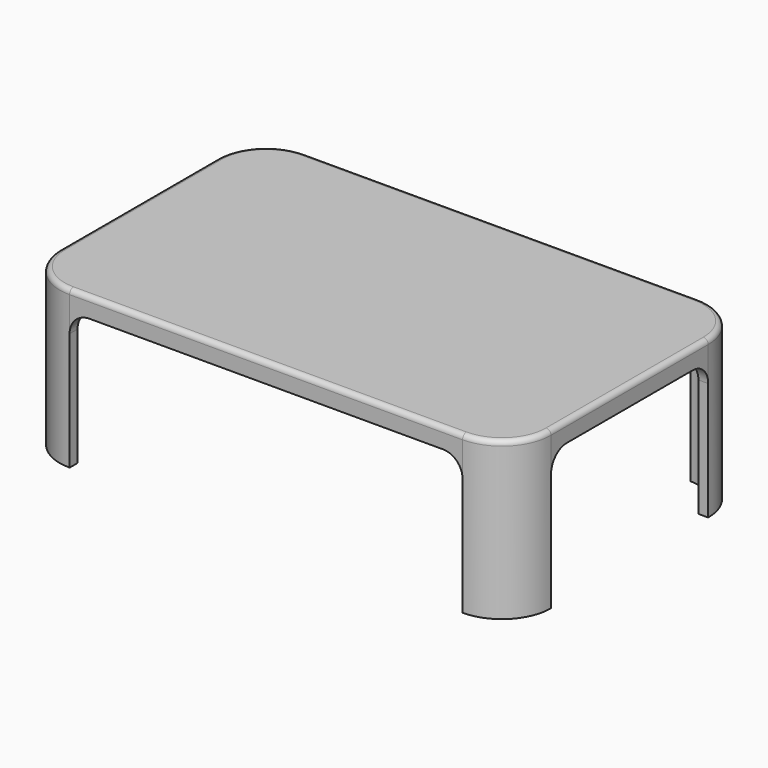
from build123d import *

# Parameters (mm, degrees)
F0_R     = 50
F1_DEPTH = 800
F2_T     = -50
F4_DEPTH = 1500.001
F6_DEPTH = 2500.001
F7_R     = 25


with BuildPart() as f1:
    # F0 (on Top) → F1 (new body)
    with BuildSketch(Plane.XY):
        with BuildLine():
            Line((-1000, -750), (1000, -750))
            ThreePointArc((1000, -750), (1176.776695, -676.776695), (1250, -500))
            Line((1250, -500), (1250, 500))
            ThreePointArc((1250, 500), (1176.776695, 676.776695), (1000, 750))
            Line((1000, 750), (-1000, 750))
            ThreePointArc((-1000, 750), (-1176.776695, 676.776695), (-1250, 500))
            Line((-1250, 500), (-1250, -500))
            ThreePointArc((-1250, -500), (-1176.776695, -676.776695), (-1000, -750))
        make_face()
        with Locations((-1000, -500)):
            Circle(F0_R, mode=Mode.SUBTRACT)
        with Locations((1000, -500)):
            Circle(F0_R, mode=Mode.SUBTRACT)
        with Locations((-1000, 500)):
            Circle(F0_R, mode=Mode.SUBTRACT)
        with Locations((1000, 500)):
            Circle(F0_R, mode=Mode.SUBTRACT)
        with Locations((-1000, -500)):
            Circle(F0_R)
        with Locations((1000, -500)):
            Circle(F0_R)
        with Locations((1000, 500)):
            Circle(F0_R)
        with Locations((-1000, 500)):
            Circle(F0_R)
    extrude(amount=F1_DEPTH)

    # F2
    f2_openings = [f1.faces().sort_by_distance(p)[0] for p in [
        (0, 0, 0),
    ]]
    offset(amount=F2_T, openings=f2_openings)

    # F3 (on face) → F4 (cut, through all)
    with BuildSketch(Plane.XZ.offset(750)):
        with BuildLine():
            Line((-1000, 600), (-1000, 0))
            Line((-1000, 0), (1000, 0))
            Line((1000, 0), (1000, 600))
            ThreePointArc((1000, 600), (970.710678, 670.710678), (900, 700))
            Line((900, 700), (-900, 700))
            ThreePointArc((-900, 700), (-970.710678, 670.710678), (-1000, 600))
        make_face()
    extrude(amount=-F4_DEPTH, mode=Mode.SUBTRACT)

    # F5 (on face) → F6 (cut, through all)
    with BuildSketch(Plane.YZ.offset(1250)):
        with BuildLine():
            Line((-500, 600), (-500, 0))
            Line((-500, 0), (500, 0))
            Line((500, 0), (500, 600))
            ThreePointArc((500, 600), (470.710678, 670.710678), (400, 700))
            Line((400, 700), (-400, 700))
            ThreePointArc((-400, 700), (-470.710678, 670.710678), (-500, 600))
        make_face()
    extrude(amount=-F6_DEPTH, mode=Mode.SUBTRACT)

    # F7
    f7_edges = [f1.edges().sort_by_distance(p)[0] for p in [
        (0, -750, 800),
        (1176.776695, -676.776695, 800),
        (1250, 0, 800),
        (1176.776695, 676.776695, 800),
        (0, 750, 800),
        (-1176.776695, 676.776695, 800),
        (-1250, 0, 800),
        (-1176.776695, -676.776695, 800),
    ]]
    fillet(f7_edges, radius=F7_R)


solid = f1.part
